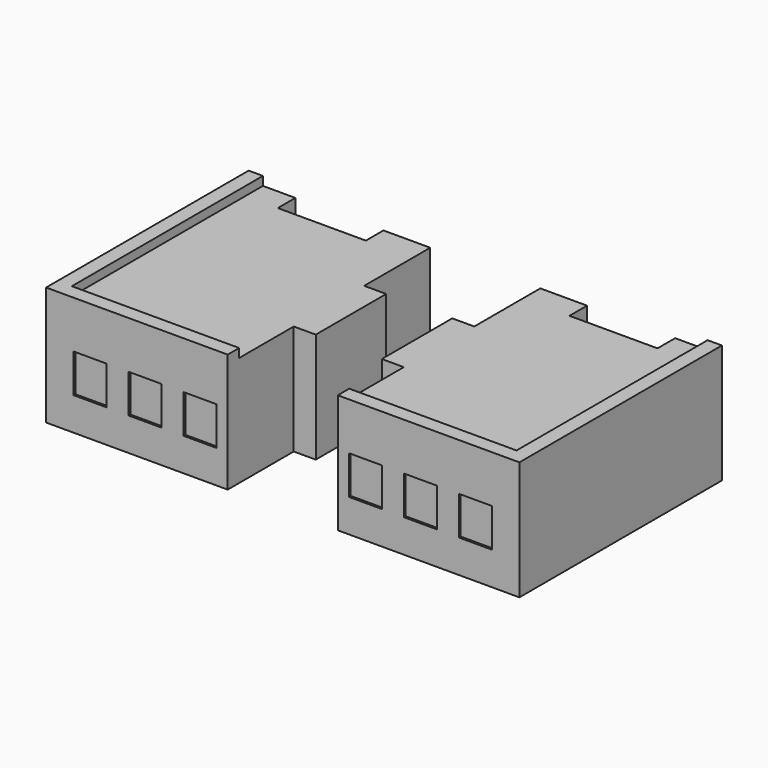
from build123d import *

# Parameters (mm, degrees)
F1_DEPTH  = 100
F3_DEPTH  = 3
F5_DEPTH  = 8
F6_W      = 30
F6_H      = 35
F7_DEPTH  = 1
F10_DEPTH = 100
F11_W     = 30
F11_H     = 35
F12_DEPTH = 2


with BuildPart() as f1:
    # F0 (on Top) → F1 (new body)
    with BuildSketch(Plane.XY):
        Polygon((42.5, 0), (0, 0), (0, -75), (-20, -75), (-20, -155), (0, -155), (0, -230), (165, -230), (165, 0), (122.5, 0), (122.5, -20), (42.5, -20), align=None)
        Polygon((2.499993, -227.500007), (2.499993, -152.500007), (-17.500007, -152.500007), (-17.500007, -77.499993), (2.499993, -77.499993), (2.499993, -2.499993), (40.000007, -2.499993), (40.000007, -22.499993), (124.999993, -22.499993), (124.999993, -2.499993), (162.500007, -2.499993), (162.500007, -227.500007), align=None, mode=Mode.SUBTRACT)
    extrude(amount=F1_DEPTH)

    # F2 (on face) → F3 (join)
    with BuildSketch(Plane.XY.offset(100)):
        Polygon((0, -155), (0, -230), (165, -230), (165, 0), (122.5, 0), (122.5, -20), (42.5, -20), (42.5, 0), (0, 0), (0, -75), (-20, -75), (-20, -155), align=None)
    extrude(amount=-F3_DEPTH)

    # F4 (on face) → F5 (join)
    with BuildSketch(Plane.XY.offset(100)):
        Polygon((0, -217), (0, -230), (165, -230), (165, -217), (165, 0), (152, 0), (152, -217), align=None)
    extrude(amount=F5_DEPTH)

    # F6 (on face) → F7 (cut)
    with BuildSketch(Plane.YZ.offset(165)):
        with Locations((-25, 47.5)):
            Rectangle(F6_W, F6_H)
        with Locations((-75, 47.5)):
            Rectangle(F6_W, F6_H)
        with Locations((-125, 47.5)):
            Rectangle(F6_W, F6_H)
        with Locations((-175, 47.5)):
            Rectangle(F6_W, F6_H)
    extrude(amount=-F7_DEPTH, mode=Mode.SUBTRACT)

    # F8 (on face) → F10 (join)
    with BuildSketch(Plane(origin=(0, 0, 0), x_dir=(1, 0, 0), z_dir=(0, 0, -1))):
        Polygon((165, 230), (0, 230), (0, 155), (-20, 155), (-20, 75), (0, 75), (0, 0), (42.5, 0), (42.5, 20), (122.5, 20), (122.5, 0), (165, 0), align=None)
        Polygon((3.01, 226.99), (161.99, 226.99), (161.99, 3.01), (125.51, 3.01), (125.51, 23.01), (39.49, 23.01), (39.49, 3.01), (3.01, 3.01), (3.01, 78.01), (-16.99, 78.01), (-16.99, 151.99), (3.01, 151.99), align=None, mode=Mode.SUBTRACT)
    extrude(amount=-F10_DEPTH)

    # F11 (on face) → F12 (cut)
    with BuildSketch(Plane.XZ.offset(230)):
        with Locations((25, 47.5)):
            Rectangle(F11_W, F11_H)
        with Locations((75, 47.5)):
            Rectangle(F11_W, F11_H)
        with Locations((125, 47.5)):
            Rectangle(F11_W, F11_H)
    extrude(amount=-F12_DEPTH, mode=Mode.SUBTRACT)


with BuildPart() as f13_1:
    # F13: instance of F1
    add(f1.part.mirror(Plane.YZ.offset(-50)))


solid = Compound([f1.part, f13_1.part])
